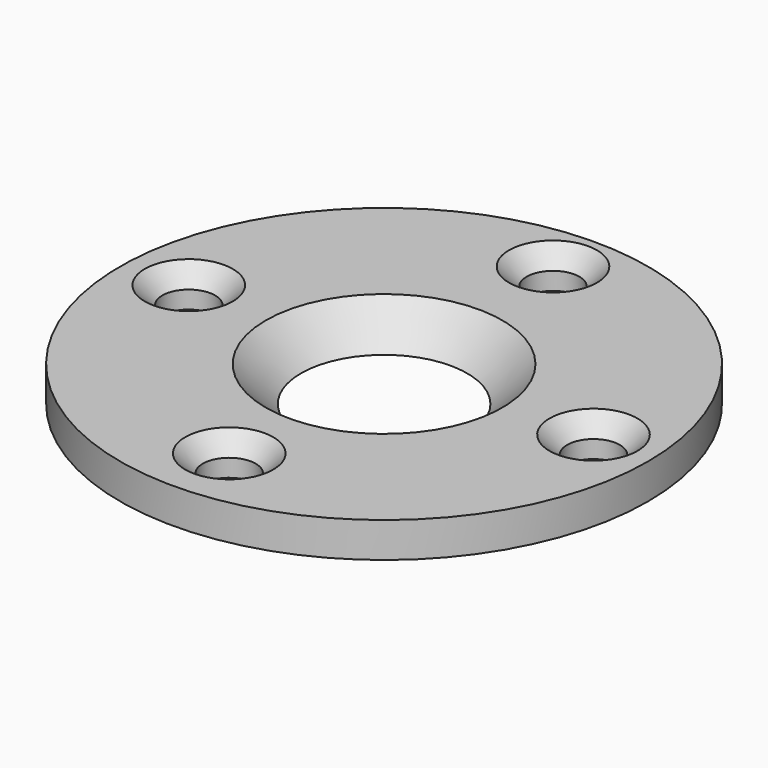
from build123d import *

# Parameters (mm, degrees)
F0_R           = 30
F1_DEPTH       = 4
F3_D           = 13.2
F3_DEPTH       = 12
F3_CSINK_D     = 26.88
F3_CSINK_ANGLE = 90
F3_TIP         = 3.9656800856
F5_D           = 6
F5_DEPTH       = 12
F5_CSINK_D     = 10
F5_CSINK_ANGLE = 90
F5_TIP         = 1.8025818571


with BuildPart() as f1:
    # F0 (on Top) → F1 (new body)
    with BuildSketch(Plane.XY):
        Circle(F0_R)
    extrude(amount=-F1_DEPTH)

    # F3
    with Locations(Plane.XY):
        with Locations((0, 0)):
            CounterSinkHole(F3_D / 2, F3_CSINK_D / 2, depth=F3_DEPTH, counter_sink_angle=F3_CSINK_ANGLE)
            with Locations((0, 0, -(F3_DEPTH + F3_TIP / 2))):  # 118° drill point
                Cone(0, F3_D / 2, F3_TIP, mode=Mode.SUBTRACT)

    # F5
    with Locations(Plane.XY):
        with Locations((-23, 1), (0, 24), (23, 1), (0, -22)):
            CounterSinkHole(F5_D / 2, F5_CSINK_D / 2, depth=F5_DEPTH, counter_sink_angle=F5_CSINK_ANGLE)
            with Locations((0, 0, -(F5_DEPTH + F5_TIP / 2))):  # 118° drill point
                Cone(0, F5_D / 2, F5_TIP, mode=Mode.SUBTRACT)


solid = f1.part
